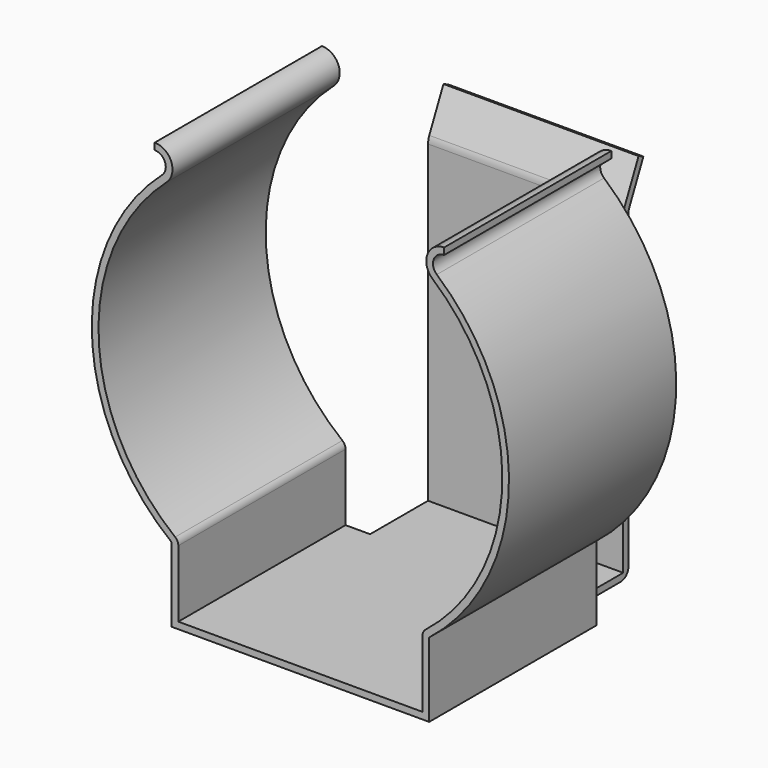
from build123d import *

# Parameters (mm, degrees)
F1_DEPTH = 9.525
F3_DEPTH = 4.445


with BuildPart() as f1:
    # F0 (on Front) → F1 (new body)
    with BuildSketch(Plane.XZ):
        with BuildLine():
            ThreePointArc((-5.707243, -7.21562), (-9.19628, -0.257349), (-6.101839, 6.885154))
            ThreePointArc((-6.101839, 6.885154), (-5.88147, 7.779725), (-6.639719, 8.303058))
            Line((-6.639719, 8.303058), (-6.639719, 7.998258))
            ThreePointArc((-6.639719, 7.998258), (-6.166454, 7.671617), (-6.303998, 7.113266))
            ThreePointArc((-6.303998, 7.113266), (-9.500428, -0.284281), (-5.8674, -7.47747))
            Line((-5.8674, -7.47747), (-5.8674, -9.920767))
            Line((-5.8674, -9.920767), (-5.8674, -10.867245))
            Line((-5.8674, -10.867245), (5.8674, -10.867245))
            Line((5.8674, -10.867245), (5.8674, -7.47747))
            ThreePointArc((5.8674, -7.47747), (9.502004, -0.225537), (6.215559, 7.190673))
            ThreePointArc((6.215559, 7.190673), (6.072203, 7.750216), (6.54657, 8.079787))
            Line((6.54657, 8.079787), (6.54657, 8.384587))
            ThreePointArc((6.54657, 8.384587), (5.786557, 7.856561), (6.016236, 6.960079))
            ThreePointArc((6.016236, 6.960079), (9.197695, -0.200486), (5.707243, -7.21562))
            ThreePointArc((5.707243, -7.21562), (5.600662, -7.34845), (5.5626, -7.514445))
            Line((5.5626, -7.514445), (5.5626, -10.562445))
            Line((5.5626, -10.562445), (-5.5626, -10.562445))
            Line((-5.5626, -10.562445), (-5.5626, -9.920767))
            Line((-5.5626, -9.920767), (-5.5626, -7.514445))
            ThreePointArc((-5.5626, -7.514445), (-5.600662, -7.34845), (-5.707243, -7.21562))
        make_face()
    extrude(amount=F1_DEPTH)

    # F2 (on Right) → F3 (join, symmetric)
    with BuildSketch(Plane.YZ):
        with BuildLine():
            Line((0, -10.562445), (0, -10.867245))
            Line((0, -10.867245), (3.1623, -10.867245))
            ThreePointArc((3.1623, -10.867245), (3.476609, -10.737054), (3.6068, -10.422745))
            Line((3.6068, -10.422745), (3.6068, 3.748756))
            ThreePointArc((3.6068, 3.748756), (3.617336, 3.844964), (3.648446, 3.93661))
            Line((3.648446, 3.93661), (4.455377, 5.667079))
            Line((4.455377, 5.667079), (4.179134, 5.795893))
            Line((4.179134, 5.795893), (3.372204, 4.065424))
            ThreePointArc((3.372204, 4.065424), (3.319761, 3.910935), (3.302, 3.748756))
            Line((3.302, 3.748756), (3.302, -10.562445))
            Line((3.302, -10.562445), (0, -10.562445))
        make_face()
    extrude(amount=F3_DEPTH, both=True)

    # F4 (on Right) → F5 (revolve)
    with BuildSketch(Plane.YZ):
        with BuildLine():
            Line((3.302, -1.088245), (2.032, -1.088245))
            ThreePointArc((2.032, -1.088245), (2.374146, -2.316276), (3.302, -3.190469))
            Line((3.302, -3.190469), (3.302, -1.088245))
        make_face()
    revolve(axis=Axis((0, 2.667, -1.088245), (0, -1, 0)))


solid = f1.part
